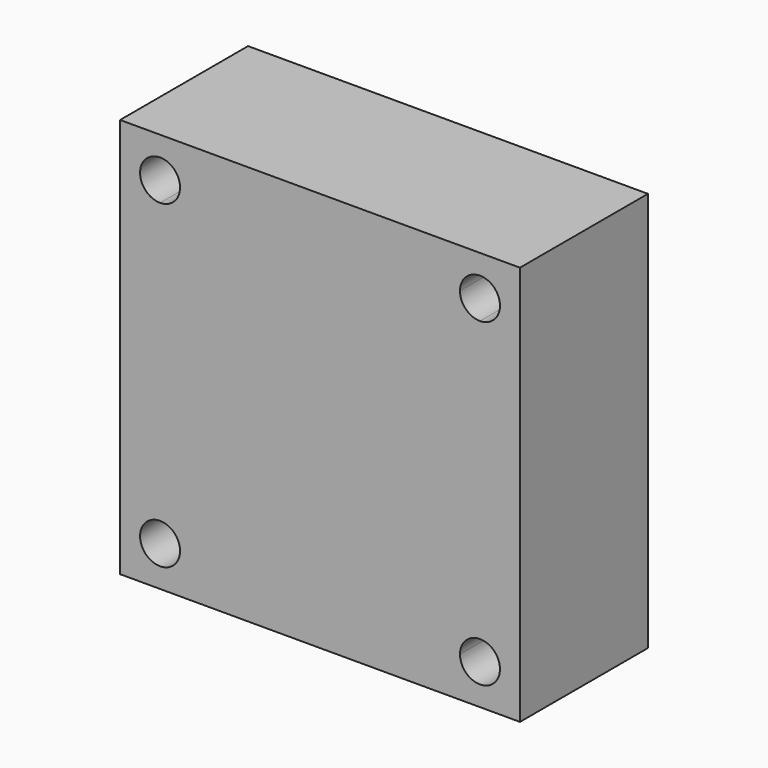
from build123d import *

# Parameters (mm, degrees)
F1_DEPTH = 10


with BuildPart() as f1:
    # F0 (on Front) → F1 (new body)
    with BuildSketch(Plane.XZ):
        Polygon((-11.6566279531, 4.2243999988), (-11.6566279531, 16.7243999988), (-11.6566279531, 29.2243999988), (-36.6566279531, 29.2243999988), (-36.6566279531, 4.2243999988), align=None)
        with BuildLine():
            ThreePointArc((-34.1566279531, 25.4743999988), (-35.0405114295, 27.6082834753), (-32.9066279531, 26.7243999988))
            Line((-32.9066279531, 26.7243999988), (-15.4066279531, 26.7243999988))
            ThreePointArc((-15.4066279531, 26.7243999988), (-14.1566279531, 27.9743999988), (-12.9066279531, 26.7243999988))
            ThreePointArc((-12.9066279531, 26.7243999988), (-13.2727444766, 25.8405165223), (-14.1566279531, 25.4743999988))
            Line((-14.1566279531, 25.4743999988), (-14.1566279531, 16.7243999988))
            Line((-14.1566279531, 16.7243999988), (-14.1566279531, 7.9743999988))
            ThreePointArc((-14.1566279531, 7.9743999988), (-13.2727444766, 7.6082834753), (-12.9066279531, 6.7243999988))
            ThreePointArc((-12.9066279531, 6.7243999988), (-14.1566279531, 5.4743999988), (-15.4066279531, 6.7243999988))
            Line((-15.4066279531, 6.7243999988), (-32.9066279531, 6.7243999988))
            ThreePointArc((-32.9066279531, 6.7243999988), (-35.0405114295, 5.8405165223), (-34.1566279531, 7.9743999988))
            Line((-34.1566279531, 7.9743999988), (-34.1566279531, 16.7243999988))
            Line((-34.1566279531, 16.7243999988), (-34.1566279531, 25.4743999988))
        make_face(mode=Mode.SUBTRACT)
        with BuildLine():
            Line((-14.1566279531, 16.7243999988), (-34.1566279531, 16.7243999988))
            Line((-34.1566279531, 16.7243999988), (-34.1566279531, 7.9743999988))
            ThreePointArc((-34.1566279531, 7.9743999988), (-33.2727444766, 7.6082834753), (-32.9066279531, 6.7243999988))
            Line((-32.9066279531, 6.7243999988), (-15.4066279531, 6.7243999988))
            ThreePointArc((-15.4066279531, 6.7243999988), (-15.0405114295, 7.6082834753), (-14.1566279531, 7.9743999988))
            Line((-14.1566279531, 7.9743999988), (-14.1566279531, 16.7243999988))
        make_face()
        with BuildLine():
            Line((-15.4066279531, 26.7243999988), (-32.9066279531, 26.7243999988))
            ThreePointArc((-32.9066279531, 26.7243999988), (-33.2727444766, 25.8405165223), (-34.1566279531, 25.4743999988))
            Line((-34.1566279531, 25.4743999988), (-34.1566279531, 16.7243999988))
            Line((-34.1566279531, 16.7243999988), (-14.1566279531, 16.7243999988))
            Line((-14.1566279531, 16.7243999988), (-14.1566279531, 25.4743999988))
            ThreePointArc((-14.1566279531, 25.4743999988), (-15.0405114295, 25.8405165223), (-15.4066279531, 26.7243999988))
        make_face()
    extrude(amount=F1_DEPTH)


solid = f1.part
